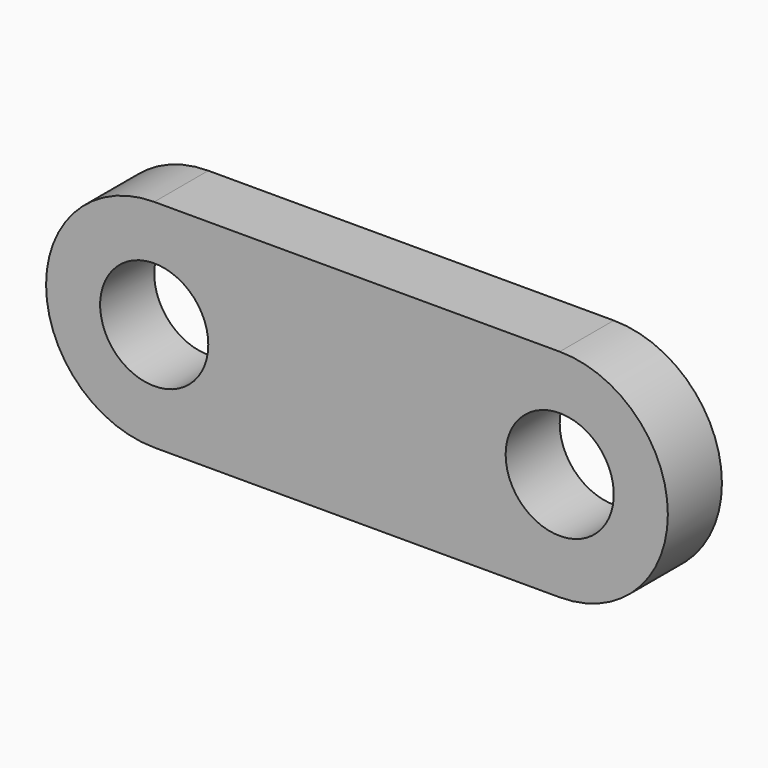
from build123d import *

# Parameters (mm, degrees)
F0_R     = 4
F1_DEPTH = 2.5


with BuildPart() as f1:
    # F0 (on Front) → F1 (new body, symmetric)
    with BuildSketch(Plane.XZ):
        with BuildLine():
            Line((0, 8), (-15, 8))
            ThreePointArc((-15, 8), (-23, 0), (-15, -8))
            Line((-15, -8), (0, -8))
            Line((0, -8), (0, 8))
        make_face()
        with Locations((-15, 0)):
            Circle(F0_R, mode=Mode.SUBTRACT)
    extrude(amount=F1_DEPTH, both=True)

    # F2: F1 across face


with BuildPart() as f1_1:
    add(f1.part)
    add(f1.part.mirror(Plane.YZ))


solid = f1_1.part
